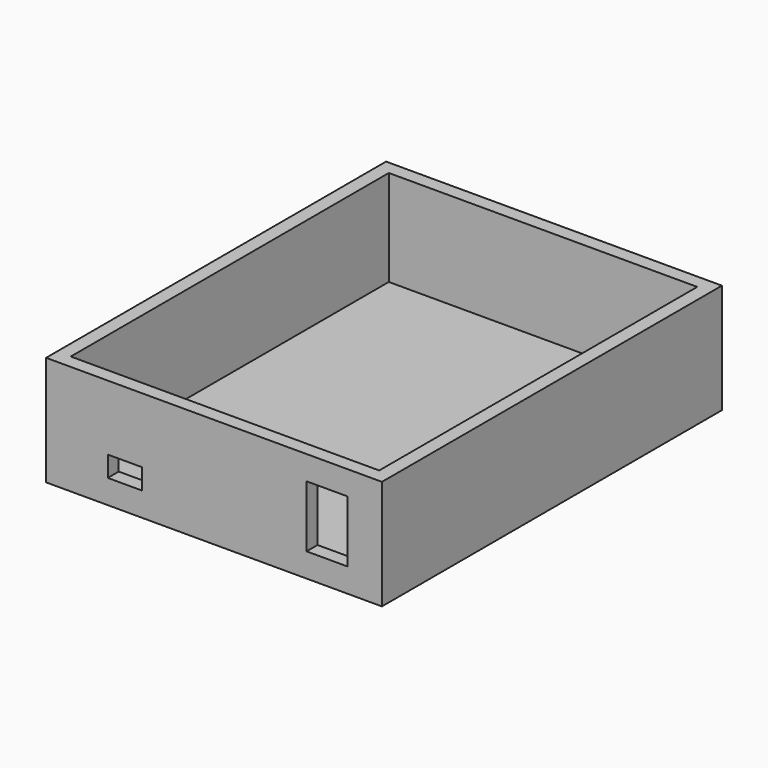
from build123d import *

# Parameters (mm, degrees)
F0_W     = 62.23
F0_H     = 20.32
F1_DEPTH = 39.37
F2_T     = -2.54
F3_W     = 6.35
F3_H     = 3.81
F3_W_2   = 7.62
F3_H_2   = 11.43
F4_DEPTH = 25.4


with BuildPart() as f1:
    # F0 (on Front) → F1 (new body, symmetric)
    with BuildSketch(Plane.XZ):
        with Locations((-0.471618, 0)):
            Rectangle(F0_W, F0_H)
    extrude(amount=F1_DEPTH, both=True)

    # F2
    f2_openings = [f1.faces().sort_by_distance(p)[0] for p in [
        (-0.471618, 0, 10.16),
    ]]
    offset(amount=F2_T, openings=f2_openings)

    # F3 (on face) → F4 (cut)
    with BuildSketch(Plane.XZ.offset(39.37)):
        with Locations((-16.981618, -3.81)):
            Rectangle(F3_W, F3_H)
        with Locations((20.483382, 0)):
            Rectangle(F3_W_2, F3_H_2)
    extrude(amount=-F4_DEPTH, mode=Mode.SUBTRACT)


solid = f1.part
